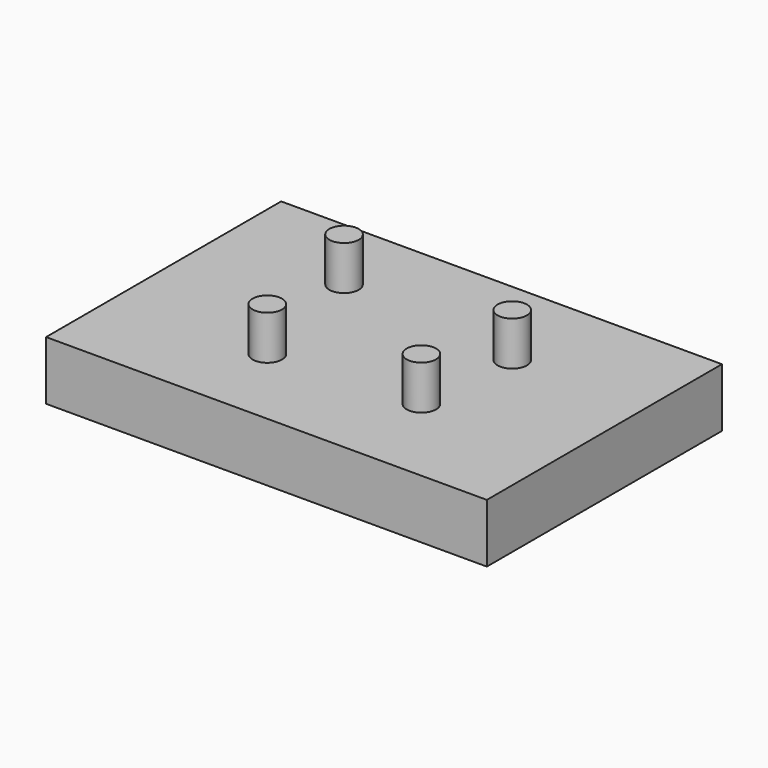
from build123d import *

# Parameters (mm, degrees)
F0_W     = 150
F0_H     = 100
F1_DEPTH = 20
F2_R     = 5
F3_DEPTH = 15


with BuildPart() as f1:
    # F0 (on Top) → F1 (new body)
    with BuildSketch(Plane.XY):
        Rectangle(F0_W, F0_H)
    extrude(amount=F1_DEPTH)

    # F2 (on face) → F3 (join)
    with BuildSketch(Plane.XY.offset(20)):
        with Locations((26.948631, -17.788597)):
            Circle(F2_R)
        with Locations((29.99166, 17.078866)):
            Circle(F2_R)
        with Locations((-32.090479, 23.117255)):
            Circle(F2_R)
        with Locations((-22.951642, -20.944992)):
            Circle(F2_R)
    extrude(amount=F3_DEPTH)


solid = f1.part
